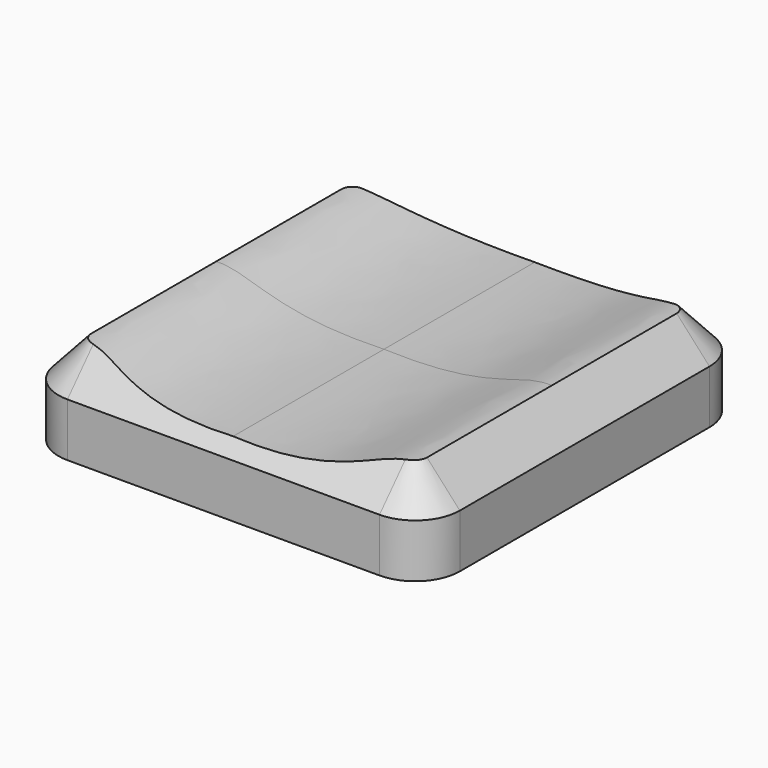
from build123d import *

# Parameters (mm, degrees)
SKETCH_W        = 9
SKETCH_H        = 18
PAD_DEPTH       = 2.7
PAD001_DEPTH    = 9
POCKET_DEPTH    = 10
POCKET001_DEPTH = 1.7
PAD002_DEPTH    = 3.4


with BuildPart() as part:
    # Sketch → Pad (new body)
    with BuildSketch(Plane.XY):
        with Locations((-4.5, 0)):
            Rectangle(SKETCH_W, SKETCH_H)
    extrude(amount=PAD_DEPTH)

    # Sketch001 → Pad001 (join, symmetric)
    with BuildSketch(Plane.XZ):
        with BuildLine():
            Line((-9, 2.7), (0, 2.7))
            Line((0, 2.7), (0, 3))
            add(Edge.make_bspline(
                [(0, 3), (-2.554918, 2.91153), (-5.658926, 3.478662), (-7.63445, 4.400123), (-9, 3.5)],
                knots=[0, 0, 0, 0, 0.5, 1, 1, 1, 1], degree=3))
            Line((-9, 3.5), (-9, 2.7))
        make_face()
    extrude(amount=PAD001_DEPTH, both=True)

    # Sketch002 → Pocket (cut)
    with BuildSketch(Plane.XY):
        with BuildLine():
            ThreePointArc((-7, 9), (-8.414214, 8.414214), (-9, 7))
            Line((-9, 7), (-10, 7))
            Line((-10, 7), (-10, 10))
            Line((-10, 10), (-7, 10))
            Line((-7, 10), (-7, 9))
        make_face()
        with BuildLine():
            ThreePointArc((-9, -7), (-8.414214, -8.414214), (-7, -9))
            Line((-7, -9), (-7, -10))
            Line((-10, -10), (-7, -10))
            Line((-10, -7), (-10, -10))
            Line((-9, -7), (-10, -7))
        make_face()
    extrude(amount=POCKET_DEPTH, mode=Mode.SUBTRACT)

    # Sketch003 → Pocket001 (cut)
    with BuildSketch(Plane.XY):
        with BuildLine():
            Line((0, 7.8), (-6.25, 7.8))
            ThreePointArc((-6.25, 7.8), (-7.31066, 7.36066), (-7.75, 6.3))
            Line((-7.75, 6.3), (-7.75, -6.3))
            ThreePointArc((-7.75, -6.3), (-7.31066, -7.36066), (-6.25, -7.8))
            Line((-6.25, -7.8), (0, -7.8))
            Line((0, -7.8), (0, 0))
            Line((0, 0), (0, 7.8))
        make_face()
    extrude(amount=POCKET001_DEPTH, mode=Mode.SUBTRACT)

    # Sketch004 (on Face10 of Pocket001) → Pad002 (join)
    with BuildSketch(Plane(origin=(0, 0, 1.7), x_dir=(1, 0, 0), z_dir=(0, 0, -1))):
        with BuildLine():
            ThreePointArc((0, 2.75), (-2.75, 0), (0, -2.75))
            Line((0, -2.096879), (0, -2.75))
            ThreePointArc((-0.63, -2), (-0.318703, -2.072517), (0, -2.096879))
            Line((-0.63, -0.63), (-0.63, -2))
            Line((-2, -0.63), (-0.63, -0.63))
            ThreePointArc((-2, 0.63), (-2.096879, 0), (-2, -0.63))
            Line((-2, 0.63), (-0.63, 0.63))
            Line((-0.63, 0.63), (-0.63, 2))
            ThreePointArc((0, 2.096879), (-0.318703, 2.072517), (-0.63, 2))
            Line((0, 2.75), (0, 2.096879))
        make_face()
    extrude(amount=PAD002_DEPTH)

    # SubtractivePipe: sweep along a path in Sketch009
    with BuildLine(Plane(origin=(0, 0, 2.4), x_dir=(0, -1, 0), z_dir=(0, 0, 1))) as subtractivepipe_path:
        Line((-9, 0), (-9, -7))
        ThreePointArc((-9, -7), (-8.414214, -8.414214), (-7, -9))
        Line((-7, -9), (7, -9))
        ThreePointArc((7, -9), (8.414214, -8.414214), (9, -7))
        Line((9, -7), (9, 0))
    # Sketch008 → SubtractivePipe (sweep, cut)
    with BuildSketch(Plane.YZ):
        Polygon((-9, 2.4), (-7.5, 4.05), (-9, 4.05), align=None)
    sweep(path=subtractivepipe_path.line, mode=Mode.SUBTRACT)

    # Mirrored: part across YZ


with BuildPart() as part_1:
    add(part.part)
    add(part.part.mirror(Plane.YZ))


solid = part_1.part
